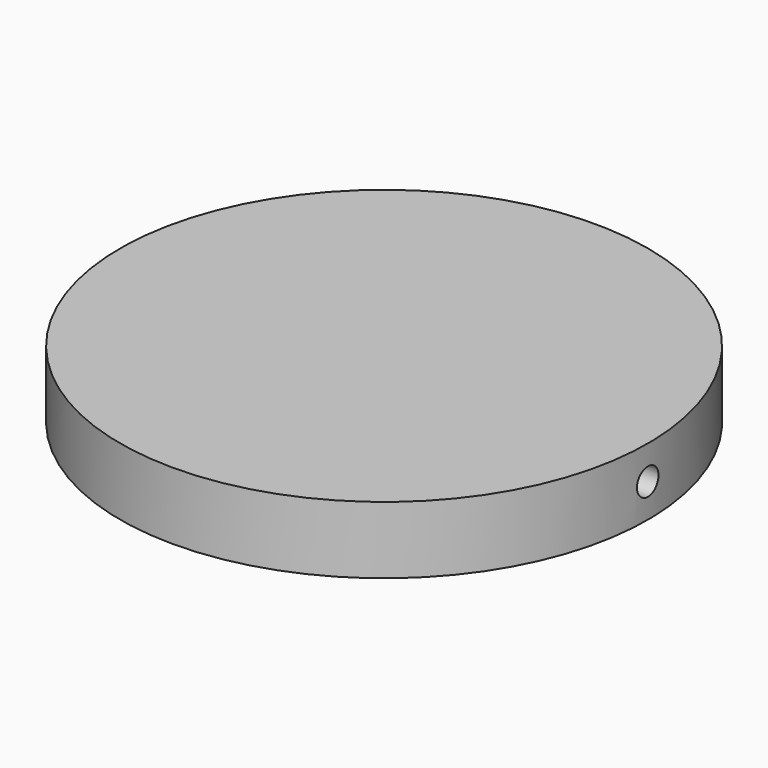
from build123d import *

# Parameters (mm, degrees)
F3_R     = 0.889
F4_DEPTH = 6.35


with BuildPart() as f1:
    # F0 (on Right) → F1 (revolve)
    with BuildSketch(Plane.YZ):
        Polygon((-17.4625, 2.54), (-3.175, 2.54), (-3.175, 5.334), (0, 5.334), (0, 6.985), (-17.4625, 6.985), align=None)
    revolve(axis=Axis((0, 0, 6.1595), (0, 0, -1)))

    # F3 (on offset) → F4 (cut)
    with BuildSketch(Plane.YZ.offset(17.4625)):
        with Locations((0, 4.7625)):
            Circle(F3_R)
    extrude(amount=-F4_DEPTH, mode=Mode.SUBTRACT)


solid = f1.part
